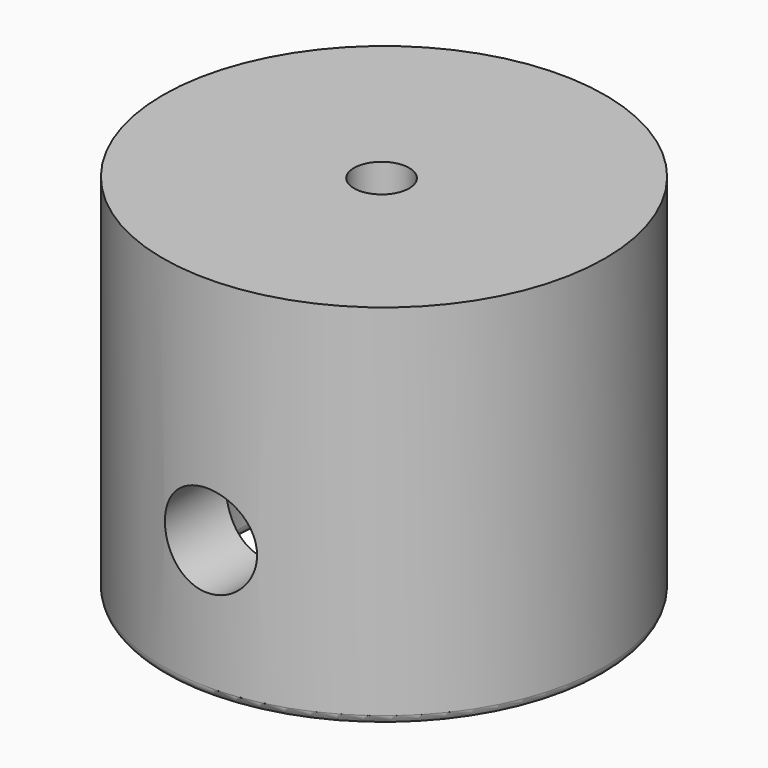
from build123d import *

# Parameters (mm, degrees)
F0_R      = 24
F1_DEPTH  = 40
F2_R      = 16
F3_DEPTH  = 25
F4_R      = 3
F5_DEPTH  = 25
F6_R      = 0.2
F7_R      = 1
F8_R      = 5
F9_DEPTH  = 50
F10_R     = 5
F11_DEPTH = 25


with BuildPart() as f1:
    # F0 (on Top) → F1 (new body)
    with BuildSketch(Plane.XY):
        Circle(F0_R)
    extrude(amount=F1_DEPTH)

    # F2 (on face) → F3 (cut)
    with BuildSketch(Plane(origin=(0, 0, 0), x_dir=(1, 0, 0), z_dir=(0, 0, -1))):
        Circle(F2_R)
    extrude(amount=-F3_DEPTH, mode=Mode.SUBTRACT)

    # F4 (on face) → F5 (cut)
    with BuildSketch(Plane(origin=(0, 0, 25), x_dir=(1, 0, 0), z_dir=(0, 0, -1))):
        with Locations((0, 0.3276021098)):
            Circle(F4_R)
    extrude(amount=-F5_DEPTH, mode=Mode.SUBTRACT)

    # F6
    f6_edges = [f1.edges().sort_by_distance(p)[0] for p in [
        (-3, -0.327602, 25),
        (-16, 0, 25),
    ]]
    fillet(f6_edges, radius=F6_R)

    # F7
    f7_edges = [f1.edges().sort_by_distance(p)[0] for p in [
        (-16, 0, 0),
        (-24, 0, 0),
    ]]
    fillet(f7_edges, radius=F7_R)

    # F8 (on Front) → F9 (cut)
    with BuildSketch(Plane.XZ):
        with Locations((0, 15)):
            Circle(F8_R)
    extrude(amount=F9_DEPTH, mode=Mode.SUBTRACT)

    # F10 (on Front) → F11 (cut)
    with BuildSketch(Plane.XZ):
        with Locations((0, 15)):
            Circle(F10_R)
    extrude(amount=-F11_DEPTH, mode=Mode.SUBTRACT)


solid = f1.part
